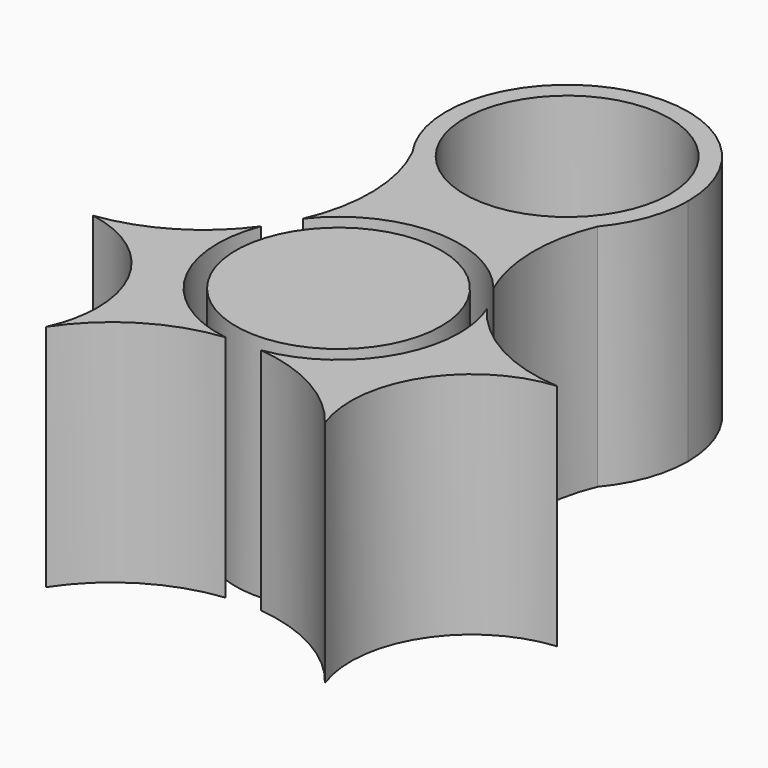
from build123d import *

# Parameters (mm, degrees)
F0_R     = 11.2
F2_DEPTH = 25


with BuildPart() as f2:
    # F0 (on Top) → F2 (new body)
    with BuildSketch(Plane.XY):
        with BuildLine():
            ThreePointArc((-10.7748828951, 23.5545960435), (-0.5465539807, 17.9909996106), (10.1070365837, 22.6892254181))
            ThreePointArc((10.1070365837, 22.6892254181), (12.4026788015, 26.6615429343), (13.2, 31.1796795577))
            ThreePointArc((13.2, 31.1796795577), (-4.0007215465, 43.7587982513), (-10.7748828951, 23.5545960435))
        make_face()
        with Locations((0, 31.1796795577)):
            Circle(F0_R, mode=Mode.SUBTRACT)
        with BuildLine():
            ThreePointArc((-10.3874815396, 8.144951029), (-0.0643990559, 13.1998429067), (10.3075141907, 8.2459172448))
            ThreePointArc((10.3075141907, 8.2459172448), (8.7111098325, 15.4468040885), (10.1070365837, 22.6892254181))
            ThreePointArc((10.1070365837, 22.6892254181), (-0.5465539807, 17.9909996106), (-10.7748828951, 23.5545960435))
            ThreePointArc((-10.7748828951, 23.5545960435), (-8.867002021, 15.8928683468), (-10.3874815396, 8.144951029))
        make_face()
    extrude(amount=F2_DEPTH)


with BuildPart() as f2b:
    # F0 (on Top) → F2, piece 2 (new body)
    with BuildSketch(Plane.XY):
        with BuildLine():
            ThreePointArc((-15.0114371021, -21.1086203317), (-9.3301267168, -15.625483179), (-1.8599937339, -13.0682984091))
            ThreePointArc((-1.8599937339, -13.0682984091), (-11.3991997552, -6.6556926717), (-12.2949309069, 4.8036105166))
            ThreePointArc((-12.2949309069, 4.8036105166), (-17.7328796642, -0.1793596341), (-24.7029638961, -2.5916622706))
            ThreePointArc((-24.7029638961, -2.5916622706), (-16.8882340844, -7.1078731735), (-13.8023945788, -15.5898397788))
            ThreePointArc((-13.8023945788, -15.5898397788), (-14.1081974597, -18.4146726329), (-15.0114371021, -21.1086203317))
        make_face()
    extrude(amount=F2_DEPTH)


with BuildPart() as f2c:
    # F0 (on Top) → F2, piece 3 (new body)
    with BuildSketch(Plane.XY):
        Circle(F0_R)
    extrude(amount=F2_DEPTH)


with BuildPart() as f2d:
    # F0 (on Top) → F2, piece 4 (new body)
    with BuildSketch(Plane.XY):
        with BuildLine():
            ThreePointArc((12.2474752735, 4.9233473801), (12.9596812, 2.5073219169), (13.2, 0))
            ThreePointArc((13.2, 0), (10.0118405064, -8.6025025239), (1.9874167161, -13.0495277614))
            ThreePointArc((1.9874167161, -13.0495277614), (9.0217698316, -15.2674444544), (14.5959273124, -20.0975631475))
            ThreePointArc((14.5959273124, -20.0975631475), (15.8539396926, -8.5221701735), (25.7863199971, -2.4459757118))
            ThreePointArc((25.7863199971, -2.4459757118), (18.1971287378, -0.2673851678), (12.2474752735, 4.9233473801))
        make_face()
    extrude(amount=F2_DEPTH)


solid = Compound([f2.part, f2b.part, f2c.part, f2d.part])
